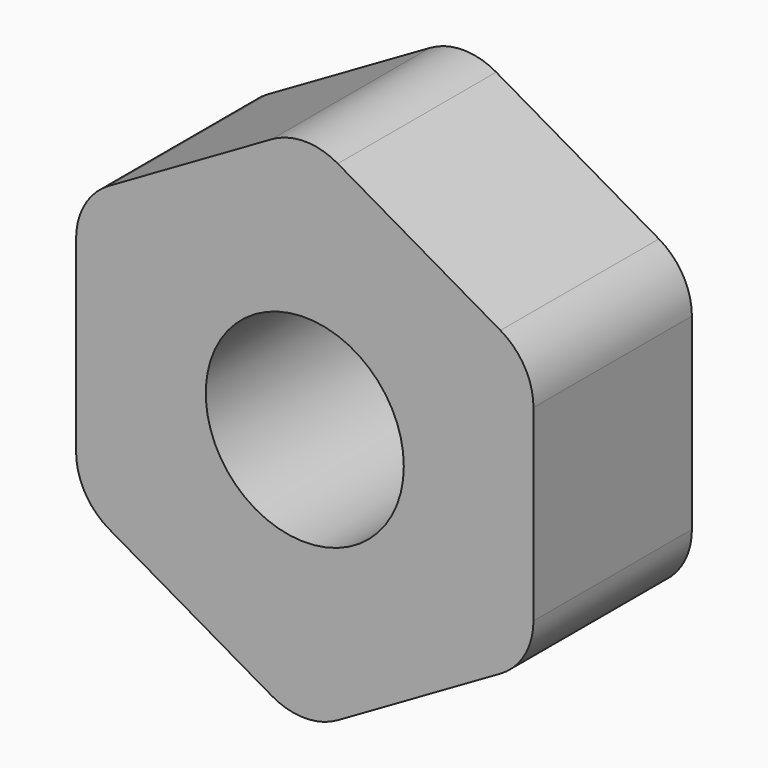
from build123d import *

# Parameters (mm, degrees)
F0_R     = 9.525
F1_DEPTH = 19.05


with BuildPart() as f1:
    # F0 (on Front) → F1 (new body)
    with BuildSketch(Plane.XZ):
        with BuildLine():
            Line((-3.175, 23.566913), (-18.822045, 14.533087))
            ThreePointArc((-18.822045, 14.533087), (-21.146307, 12.208826), (-21.997045, 9.033826))
            Line((-21.997045, 9.033826), (-21.997045, -9.033826))
            ThreePointArc((-21.997045, -9.033826), (-21.146307, -12.208826), (-18.822045, -14.533087))
            Line((-18.822045, -14.533087), (-3.175, -23.566913))
            ThreePointArc((-3.175, -23.566913), (0, -24.417652), (3.175, -23.566913))
            Line((3.175, -23.566913), (18.822045, -14.533087))
            ThreePointArc((18.822045, -14.533087), (21.146307, -12.208826), (21.997045, -9.033826))
            Line((21.997045, -9.033826), (21.997045, 9.033826))
            ThreePointArc((21.997045, 9.033826), (21.146307, 12.208826), (18.822045, 14.533087))
            Line((18.822045, 14.533087), (3.175, 23.566913))
            ThreePointArc((3.175, 23.566913), (0, 24.417652), (-3.175, 23.566913))
        make_face()
        Circle(F0_R, mode=Mode.SUBTRACT)
    extrude(amount=F1_DEPTH)


solid = f1.part
